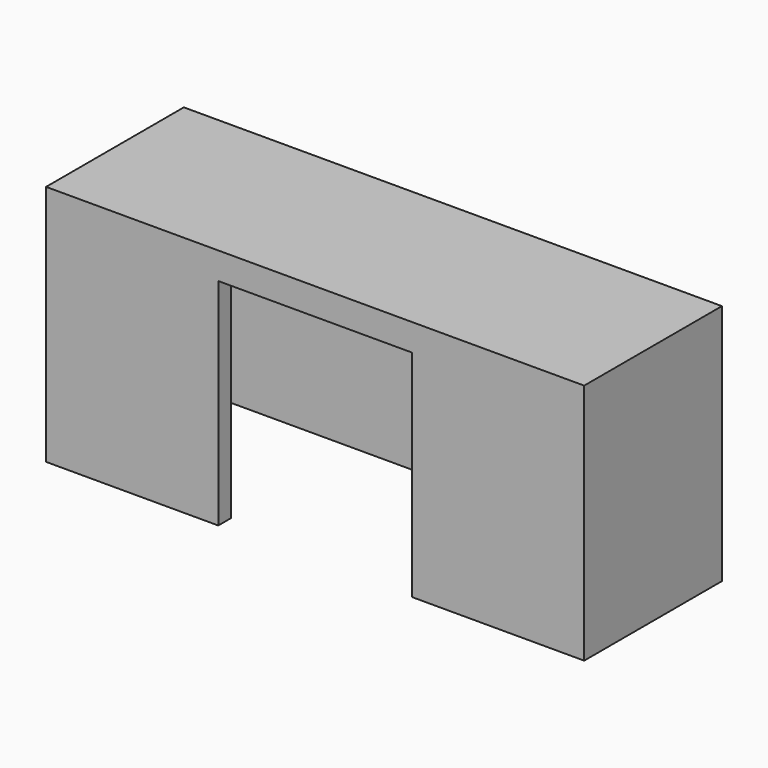
from build123d import *

# Parameters (mm, degrees)
F0_W     = 5080
F0_H     = 1625.6
F1_DEPTH = 2286
F2_W     = 1828.8
F2_H     = 2032
F3_DEPTH = 1587.5
F4_W     = 1435.1
F4_H     = 2032
F5_DEPTH = 1320.8
F6_W     = 1435.1
F6_H     = 2032
F7_DEPTH = 1320.8


with BuildPart() as f1:
    # F0 (on Top) → F1 (new body)
    with BuildSketch(Plane.XY):
        Rectangle(F0_W, F0_H)
    extrude(amount=F1_DEPTH)

    # F2 (on face) → F3 (cut)
    with BuildSketch(Plane.XZ.offset(812.8)):
        with Locations((0, 1016)):
            Rectangle(F2_W, F2_H)
    extrude(amount=-F3_DEPTH, mode=Mode.SUBTRACT)

    # F4 (on face) → F5 (cut)
    with BuildSketch(Plane(origin=(914.4, 0, 0), x_dir=(0, -1, 0), z_dir=(-1, 0, 0))):
        with Locations((-57.15, 1016)):
            Rectangle(F4_W, F4_H)
    extrude(amount=-F5_DEPTH, mode=Mode.SUBTRACT)

    # F6 (on face) → F7 (cut)
    with BuildSketch(Plane.YZ.offset(-914.4)):
        with Locations((57.15, 1016)):
            Rectangle(F6_W, F6_H)
    extrude(amount=-F7_DEPTH, mode=Mode.SUBTRACT)


solid = f1.part
